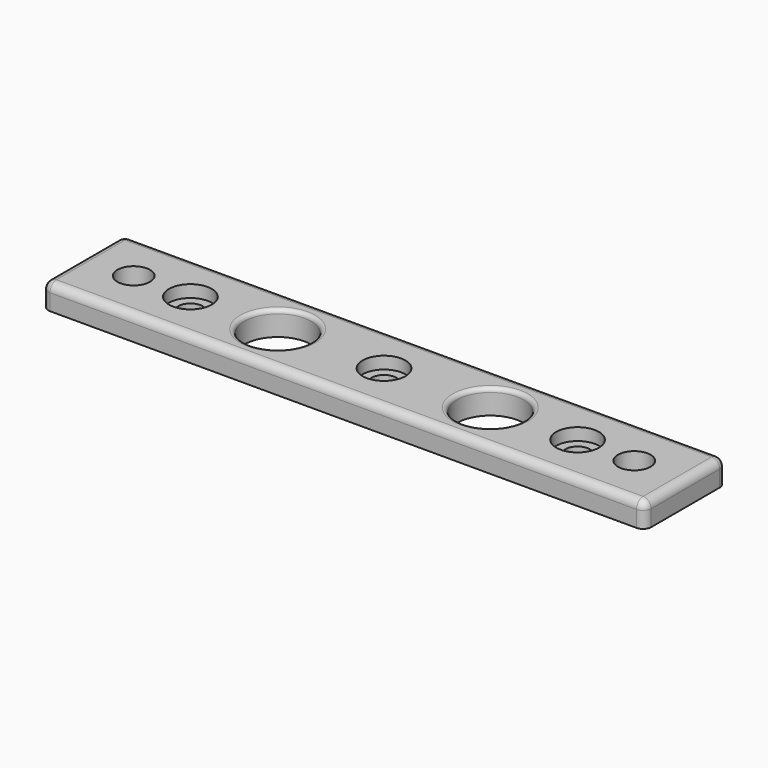
from build123d import *

# Parameters (mm, degrees)
F0_W     = 70
F0_H     = 12.5
F0_R     = 2
F0_R_2   = 1.5
F0_R_3   = 4.1
F0_W_2   = 2
F1_DEPTH = 3
F2_R     = 0.5
F3_R     = 2.625
F3_R_2   = 1.5
F4_DEPTH = 1.5
F5_R     = 1


with BuildPart() as f1:
    # F0 (on Top) → F1 (new body)
    with BuildSketch(Plane.XY):
        Rectangle(F0_W, F0_H)
        with Locations((-30.725, 0)):
            Circle(F0_R, mode=Mode.SUBTRACT)
        with Locations((-23.762, 0)):
            Circle(F0_R_2, mode=Mode.SUBTRACT)
        with Locations((-13.05, 0)):
            Circle(F0_R_3, mode=Mode.SUBTRACT)
        Circle(F0_R_2, mode=Mode.SUBTRACT)
        with Locations((13.05, 0)):
            Circle(F0_R_3, mode=Mode.SUBTRACT)
        with Locations((23.762, 0)):
            Circle(F0_R_2, mode=Mode.SUBTRACT)
        with Locations((30.725, 0)):
            Circle(F0_R, mode=Mode.SUBTRACT)
        with Locations((36, 0)):
            Rectangle(F0_W_2, F0_H)
        with Locations((-36, 0)):
            Rectangle(F0_W_2, F0_H)
    extrude(amount=F1_DEPTH)

    # F2
    f2_edges = [f1.edges().sort_by_distance(p)[0] for p in [
        (-17.15, 0, 3),
        (8.95, 0, 3),
    ]]
    fillet(f2_edges, radius=F2_R)

    # F3 (on face) → F4 (cut)
    with BuildSketch(Plane.XY.offset(3)):
        with Locations((-23.762, 0)):
            Circle(F3_R)
        with Locations((-23.762, 0)):
            Circle(F3_R_2, mode=Mode.SUBTRACT)
        Circle(F3_R)
        Circle(F3_R_2, mode=Mode.SUBTRACT)
        with Locations((23.762, 0)):
            Circle(F3_R)
        with Locations((23.762, 0)):
            Circle(F3_R_2, mode=Mode.SUBTRACT)
    extrude(amount=-F4_DEPTH, mode=Mode.SUBTRACT)

    # F5
    f5_edges = [f1.edges().sort_by_distance(p)[0] for p in [
        (0, 6.25, 3),
        (-37, 0, 3),
        (0, -6.25, 3),
        (37, 0, 3),
        (-37, 6.25, 1.5),
        (-37, -6.25, 1.5),
        (37, 6.25, 1.5),
        (37, -6.25, 1.5),
    ]]
    fillet(f5_edges, radius=F5_R)


solid = f1.part
